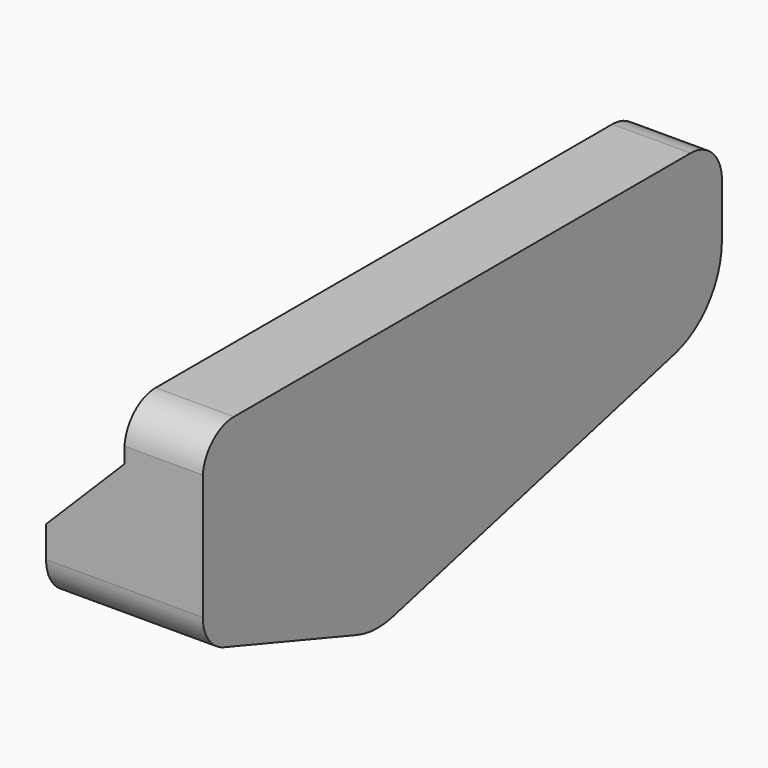
from build123d import *

# Parameters (mm, degrees)
F1_DEPTH = 6.35
F3_DEPTH = 38.1


with BuildPart() as f1:
    # F0 (on Right) → F1 (new body, symmetric)
    with BuildSketch(Plane.YZ):
        with BuildLine():
            Line((24.33887, 4.155473), (-21.92162, 4.155473))
            ThreePointArc((-21.92162, 4.155473), (-24.056937, 3.330164), (-25.082145, 1.283298))
            Line((-25.082145, 1.283298), (-25.082145, -8.879172))
            ThreePointArc((-25.082145, -8.879172), (-24.489592, -10.726222), (-22.93311, -11.883839))
            Line((-22.93311, -11.883839), (-9.41385, -16.500088))
            ThreePointArc((-9.41385, -16.500088), (-7.628749, -16.835147), (-5.821818, -16.65116))
            Line((-5.821818, -16.65116), (22.703972, -9.519713))
            ThreePointArc((22.703972, -9.519713), (26.168975, -7.267175), (27.51387, -3.359308))
            Line((27.51387, -3.359308), (27.51387, 0.980473))
            ThreePointArc((27.51387, 0.980473), (26.583934, 3.225537), (24.33887, 4.155473))
        make_face()
    extrude(amount=F1_DEPTH, both=True)

    # F2 (on Front) → F3 (cut, symmetric)
    with BuildSketch(Plane.XZ):
        Polygon((-6.35, -6.35), (0, 0), (0, 6.35), (-12.7, 6.35), (-12.7, -6.35), align=None)
    extrude(amount=F3_DEPTH, both=True, mode=Mode.SUBTRACT)


solid = f1.part
